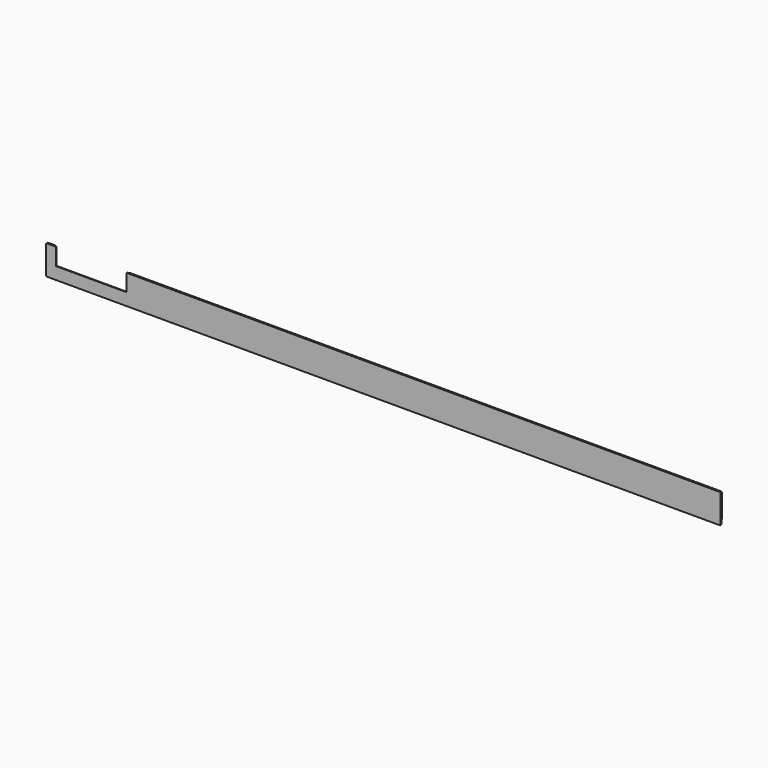
from build123d import *

# Parameters (mm, degrees)
F0_W     = 1380
F0_H     = 60
F1_DEPTH = 3
F2_W     = 1380
F2_H     = 10
F3_DEPTH = 1.5
F4_R     = 2
F5_W     = 145
F5_H     = 35
F6_DEPTH = 3
F8_DEPTH = 1.5


with BuildPart() as f1:
    # F0 (on Front) → F1 (new body)
    with BuildSketch(Plane.XZ):
        Rectangle(F0_W, F0_H)
    extrude(amount=F1_DEPTH)

    # F2 (on face) → F3 (cut)
    with BuildSketch(Plane(origin=(0, 0, 0), x_dir=(-1, 0, 0), z_dir=(0, 1, 0))):
        with Locations((0, -25)):
            Rectangle(F2_W, F2_H)
    extrude(amount=-F3_DEPTH, mode=Mode.SUBTRACT)

    # F4
    f4_edges = [f1.edges().sort_by_distance(p)[0] for p in [
        (690, -2.25, -30),
        (690, -1.5, 30),
        (-690, -1.5, 30),
        (-690, -2.25, -30),
    ]]
    fillet(f4_edges, radius=F4_R)

    # F5 (on face) → F6 (cut)
    with BuildSketch(Plane.XZ.offset(3)):
        with Locations((-597.5, 12.5)):
            Rectangle(F5_W, F5_H)
    extrude(amount=-F6_DEPTH, mode=Mode.SUBTRACT)

    # F7 (on face) → F8 (cut)
    with BuildSketch(Plane(origin=(0, 0, 0), x_dir=(-1, 0, 0), z_dir=(0, 1, 0))):
        Polygon((525, -5), (525, 30), (521, 30), (521, -9), (674, -9), (674, 30), (670, 30), (670, -5), align=None)
    extrude(amount=-F8_DEPTH, mode=Mode.SUBTRACT)


solid = f1.part
